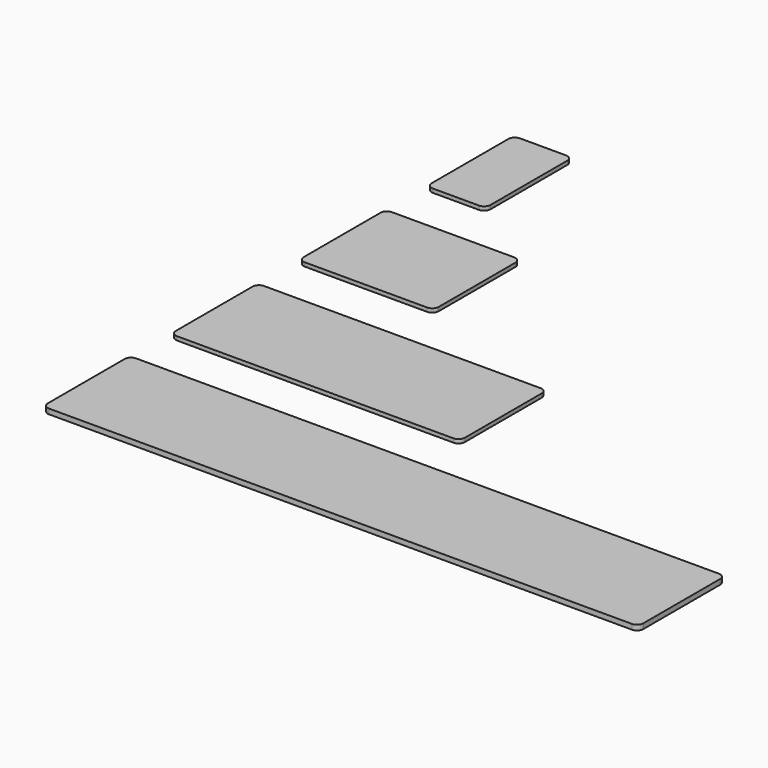
from build123d import *

# Parameters (mm, degrees)
BOX_W        = 93.1
BOX_H        = 17
BOX_DEPTH    = 0.8
FILLET_R     = 1
BOX001_W     = 45.2
BOX001_H     = 17
BOX001_DEPTH = 0.6
FILLET001_R  = 1
BOX002_W     = 21.1
BOX002_H     = 17
BOX002_DEPTH = 0.6
FILLET002_R  = 1
BOX003_W     = 9.2
BOX003_H     = 17
BOX003_DEPTH = 0.6
FILLET003_R  = 1


with BuildPart() as bigseparator:
    # Box → Box (new body)
    with BuildSketch(Plane.XY):
        with Locations((46.55, 8.5)):
            Rectangle(BOX_W, BOX_H)
    extrude(amount=BOX_DEPTH)

    # Fillet
    fillet_edges = [bigseparator.edges().sort_by_distance(p)[0] for p in [
        (0, 0, 0.4),
        (0, 17, 0.4),
        (93.1, 0, 0.4),
        (93.1, 17, 0.4),
    ]]
    fillet(fillet_edges, radius=FILLET_R)


with BuildPart() as standardseparator:
    # Box001 → Box001 (new body)
    with BuildSketch(Plane.XY):
        with Locations((22.6, 8.5)):
            Rectangle(BOX001_W, BOX001_H)
    extrude(amount=BOX001_DEPTH)

    # Fillet001
    fillet001_edges = [standardseparator.edges().sort_by_distance(p)[0] for p in [
        (0, 0, 0.3),
        (0, 17, 0.3),
        (45.2, 0, 0.3),
        (45.2, 17, 0.3),
    ]]
    fillet(fillet001_edges, radius=FILLET001_R)


with BuildPart() as standardseparator_1:
    # Fillet001 placement: moved
    add(standardseparator.part.moved(Location((0, 25, 0))))


with BuildPart() as smallseparator:
    # Box002 → Box002 (new body)
    with BuildSketch(Plane.XY):
        with Locations((10.55, 8.5)):
            Rectangle(BOX002_W, BOX002_H)
    extrude(amount=BOX002_DEPTH)

    # Fillet002
    fillet002_edges = [smallseparator.edges().sort_by_distance(p)[0] for p in [
        (0, 0, 0.3),
        (0, 17, 0.3),
        (21.1, 0, 0.3),
        (21.1, 17, 0.3),
    ]]
    fillet(fillet002_edges, radius=FILLET002_R)


with BuildPart() as smallseparator_1:
    # Fillet002 placement: moved
    add(smallseparator.part.moved(Location((0, 50, 0))))


with BuildPart() as tinyseparator:
    # Box003 → Box003 (new body)
    with BuildSketch(Plane.XY):
        with Locations((4.6, 8.5)):
            Rectangle(BOX003_W, BOX003_H)
    extrude(amount=BOX003_DEPTH)

    # Fillet003
    fillet003_edges = [tinyseparator.edges().sort_by_distance(p)[0] for p in [
        (0, 0, 0.3),
        (0, 17, 0.3),
        (9.2, 0, 0.3),
        (9.2, 17, 0.3),
    ]]
    fillet(fillet003_edges, radius=FILLET003_R)


with BuildPart() as tinyseparator_1:
    # Fillet003 placement: moved
    add(tinyseparator.part.moved(Location((0, 75, 0))))


solid = Compound([bigseparator.part, standardseparator_1.part, smallseparator_1.part, tinyseparator_1.part])
